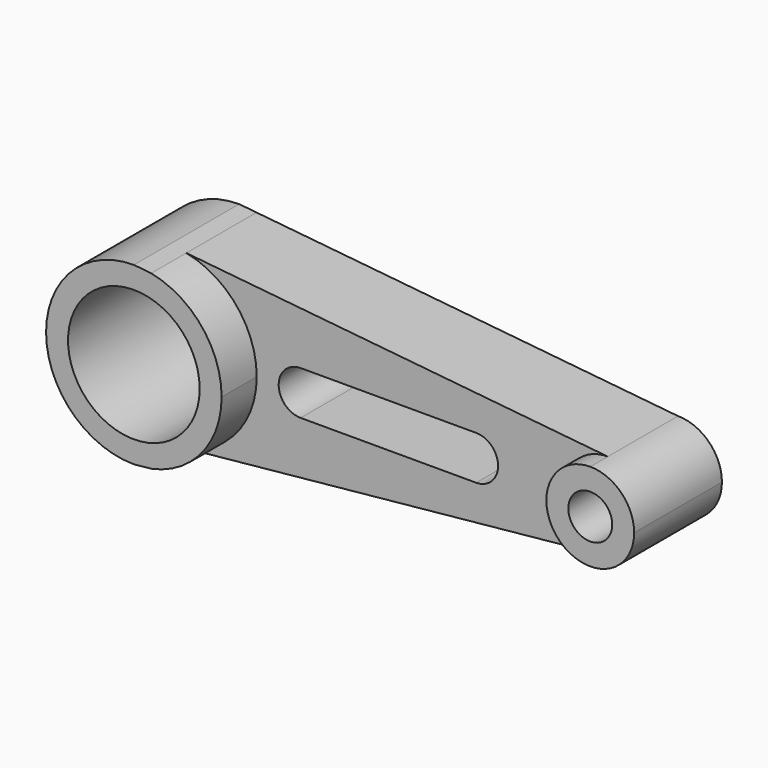
from build123d import *

# Parameters (mm, degrees)
F0_R     = 19.05
F1_DEPTH = 38.1
F2_DEPTH = 25.4
F0_R_2   = 6.35
F3_DEPTH = 31.75


with BuildPart() as f1:
    # F0 (on Front) → F1 (new body)
    with BuildSketch(Plane.XZ):
        with BuildLine():
            Line((5.029703, 24.89703), (0, 25.4))
            ThreePointArc((0, 25.4), (-25.4, 0), (0, -25.4))
            Line((0, -25.4), (5.029703, -24.89703))
            ThreePointArc((5.029703, -24.89703), (19.658515, -16.08424), (25.4, 0))
            ThreePointArc((25.4, 0), (19.658515, 16.08424), (5.029703, 24.89703))
        make_face()
        Circle(F0_R, mode=Mode.SUBTRACT)
    extrude(amount=F1_DEPTH)

    # F0 (on Front) → F2 (join)
    with BuildSketch(Plane.XZ):
        with BuildLine():
            Line((127, 12.7), (5.029703, 24.89703))
            ThreePointArc((5.029703, 24.89703), (19.658515, 16.08424), (25.4, 0))
            ThreePointArc((25.4, 0), (19.658515, -16.08424), (5.029703, -24.89703))
            Line((5.029703, -24.89703), (127, -12.7))
            ThreePointArc((127, -12.7), (114.3, 0), (127, 12.7))
        make_face()
        with BuildLine():
            ThreePointArc((38.1, -6.35), (31.75, 0), (38.1, 6.35))
            Line((38.1, 6.35), (88.9, 6.35))
            ThreePointArc((88.9, 6.35), (95.25, 0), (88.9, -6.35))
            Line((88.9, -6.35), (38.1, -6.35))
        make_face(mode=Mode.SUBTRACT)
    extrude(amount=F2_DEPTH)

    # F0 (on Front) → F3 (join)
    with BuildSketch(Plane.XZ):
        with BuildLine():
            ThreePointArc((139.7, 0), (135.980256, 8.980256), (127, 12.7))
            ThreePointArc((127, 12.7), (114.3, 0), (127, -12.7))
            ThreePointArc((127, -12.7), (135.980256, -8.980256), (139.7, 0))
        make_face()
        with Locations((127, 0)):
            Circle(F0_R_2, mode=Mode.SUBTRACT)
    extrude(amount=F3_DEPTH)


solid = f1.part
